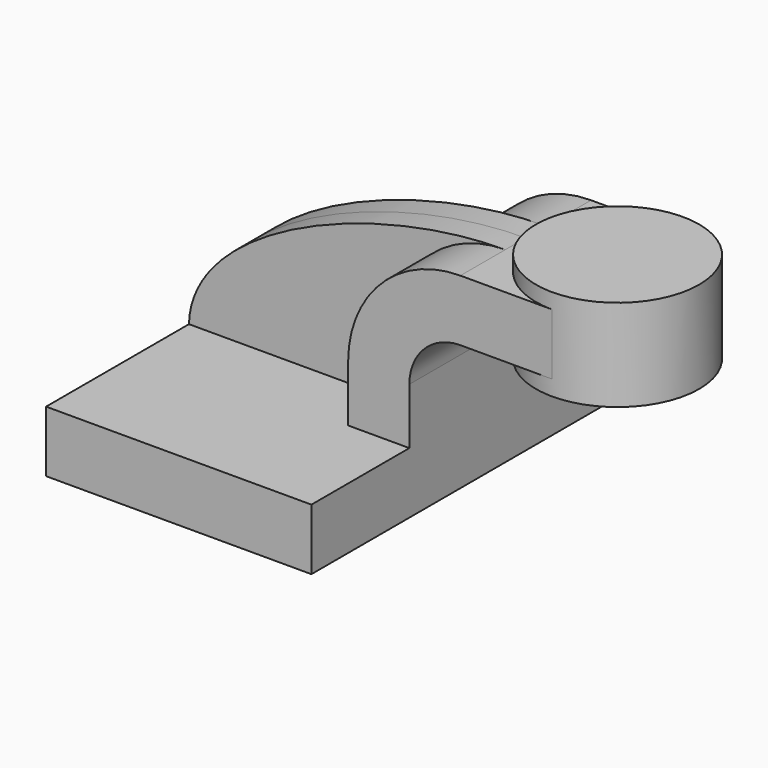
from build123d import *

# Parameters (mm, degrees)
F1_DEPTH = 63.5
F0_W     = 25.4
F0_H     = 19.05
F2_DEPTH = 25.4
F3_DEPTH = 7.9375


with BuildPart() as f1:
    # F0 (on Front) → F1 (new body, symmetric)
    with BuildSketch(Plane.XZ):
        Polygon((-41.275, 9.525), (-41.275, -9.525), (41.275, -9.525), (41.275, 9.525), (22.225, 9.525), align=None)
    extrude(amount=F1_DEPTH, both=True)

    # F0 (on Front) → F2 (join, symmetric)
    with BuildSketch(Plane.XZ):
        with BuildLine():
            Line((60.325, 61.9252), (57.15, 61.9252))
            ThreePointArc((57.15, 61.9252), (32.4542956671, 51.6959043329), (22.225, 27.0002))
            Line((22.225, 27.0002), (22.225, 9.525))
            Line((22.225, 9.525), (41.275, 9.525))
            Line((41.275, 9.525), (41.275, 27.0002))
            ThreePointArc((41.275, 27.0002), (45.9246798487, 38.2255201513), (57.15, 42.8752))
            Line((57.15, 42.8752), (60.325, 42.8752))
            Line((60.325, 42.8752), (60.325, 61.9252))
        make_face()
        with Locations((73.025, 52.4002)):
            Rectangle(F0_W, F0_H)
    extrude(amount=F2_DEPTH, both=True)

    # F0 (on Front) → F3 (join, symmetric)
    with BuildSketch(Plane.XZ):
        with BuildLine():
            add(Edge.make_bspline(
                [(-41.275, 9.525), (-40.5363477767, 39.0089415014), (15.7318022102, 61.9221478701), (57.15, 61.9252)],
                knots=[0, 0, 0, 0, 111.5045361635, 111.5045361635, 111.5045361635, 111.5045361635], degree=3))
            Line((-41.275, 9.525), (22.225, 9.525))
            Line((22.225, 9.525), (22.225, 27.0002))
            ThreePointArc((22.225, 27.0002), (32.4542956671, 51.6959043329), (57.15, 61.9252))
        make_face()
    extrude(amount=F3_DEPTH, both=True)

    # F0 (on Front) → F4 (revolve)
    with BuildSketch(Plane.XZ):
        Polygon((85.725, 66.675), (85.725, 61.9252), (85.725, 42.8752), (85.725, 38.1), (111.125, 38.1), (111.125, 66.675), align=None)
    revolve(axis=Axis((85.725, 0, 52.3875), (0, 0, -1)))


solid = f1.part
